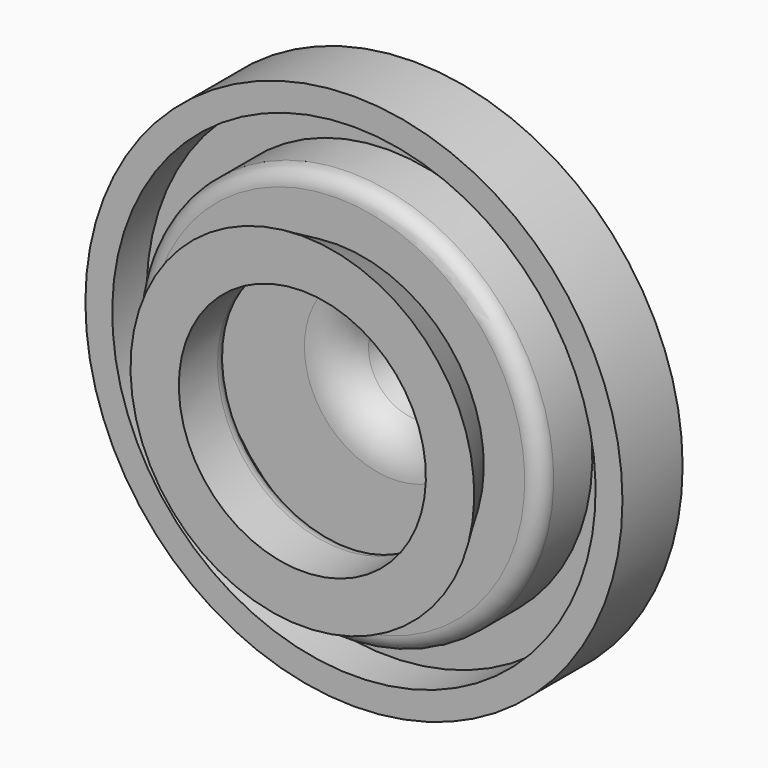
from build123d import *


with BuildPart() as f1:
    # F0 (on Right) → F1 (revolve)
    with BuildSketch(Plane.YZ):
        with BuildLine():
            Line((0, 23.252237), (0, 79.375))
            Line((0, 79.375), (-22.225, 79.375))
            Line((-22.225, 79.375), (-22.225, 71.4375))
            Line((-22.225, 71.4375), (-9.525, 71.4375))
            Line((-9.525, 71.4375), (-9.525, 60.325))
            Line((-9.525, 60.325), (-23.8125, 60.325))
            ThreePointArc((-23.8125, 60.325), (-27.180096, 58.930096), (-28.575, 55.5625))
            Line((-28.575, 55.5625), (-28.575, 43.467652))
            Line((-28.575, 43.467652), (-41.275, 50.8))
            Line((-41.275, 50.8), (-41.275, 36.5125))
            Line((-41.275, 36.5125), (-26.9875, 36.5125))
            ThreePointArc((-26.9875, 36.5125), (-23.619904, 37.907404), (-22.225, 41.275))
            Line((-22.225, 41.275), (-22.225, 53.975))
            Line((-22.225, 53.975), (-7.9375, 53.975))
            Line((-7.9375, 53.975), (-7.9375, 26.072036))
            ThreePointArc((-7.9375, 26.072036), (-5.548744, 18.657979), (0.718916, 14.032957))
            Line((0.718916, 14.032957), (46.414223, 3.08766))
            ThreePointArc((46.414223, 3.08766), (48.167512, 1.966273), (48.849643, 0))
            Line((48.849643, 0), (55.5625, 0))
            ThreePointArc((55.5625, 0), (43.986608, 16.4404), (24.60625, 11.084116))
            Line((24.60625, 11.084116), (4.129445, 17.30315))
            ThreePointArc((4.129445, 17.30315), (1.133535, 19.631327), (0, 23.252237))
        make_face()
    revolve(axis=Axis((0, 52.206071, 0), (0, 1, 0)))


solid = f1.part
